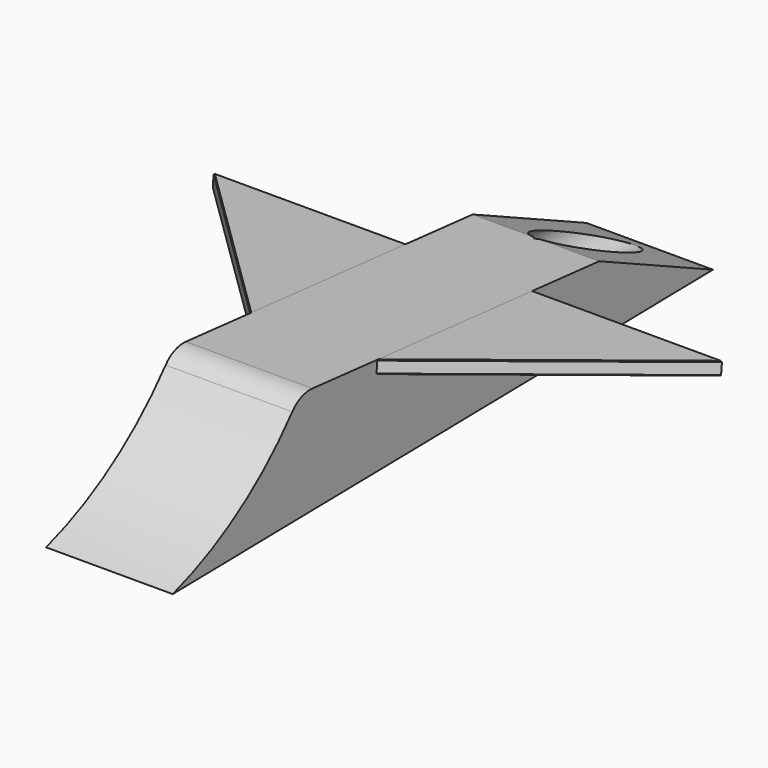
from build123d import *

# Parameters (mm, degrees)
F1_DEPTH      = 19.05
F1_DEPTH_BACK = 19.05
F2_R          = 8.7708682623
F4_DEPTH      = 3.81
F5_SIZE       = 0.254
F6_R          = 8.5644348715
F7_DEPTH      = 131.826
F8_R          = 7.62


with BuildPart() as f1:
    # F0 (on Right) → F1 (new body, two sides)
    with BuildSketch(Plane.YZ) as f1_sk:
        with BuildLine():
            ThreePointArc((-69.297126121, 10.6023983714), (-90.5654400371, -9.9203811878), (-117.0916636607, -22.9543797277))
            Line((-117.0916636607, -22.9543797277), (86.1083363393, -19.6213065932))
            Line((86.1083363393, -19.6213065932), (43.3460188102, 0))
            Line((43.3460188102, 0), (-69.297126121, 10.6023983714))
        make_face()
    extrude(amount=F1_DEPTH)
    extrude(f1_sk.sketch, amount=-F1_DEPTH_BACK)

    # F2
    f2_edges = [f1.edges().sort_by_distance(p)[0] for p in [
        (0, -69.297126, 10.602398),
    ]]
    fillet(f2_edges, radius=F2_R)

    # F3 (on face) → F4 (join)
    with BuildSketch(Plane(origin=(0, 0.380642539, 4.0440635396), x_dir=(1, 0, 0), z_dir=(0, 0.0937095933, 0.9955995742))):
        Polygon((-76.7426812672, 17.75527787), (0, -60.1567947547), (0, 17.75527787), align=None)
        Polygon((0, 17.75527787), (0, -60.1567947547), (76.2, 17.75527787), align=None)
    extrude(amount=-F4_DEPTH)

    # F5
    f5_edges = [f1.edges().sort_by_distance(p)[0] for p in [
        (47.625, -11.387704, 1.324905),
        (47.625, -11.03067, 5.118139),
        (-47.896341, -11.099236, 5.124593),
        (-47.896341, -11.45627, 1.331359),
    ]]
    chamfer(f5_edges, length=F5_SIZE)

    # F6 (on Front) → F7 (cut)
    with BuildSketch(Plane.XZ):
        with Locations((0, -8.5168717217)):
            Circle(F6_R)
    extrude(amount=-F7_DEPTH, mode=Mode.SUBTRACT)

    # F8
    f8_edges = [f1.edges().sort_by_distance(p)[0] for p in [
        (-8.564435, 0, -8.516872),
    ]]
    fillet(f8_edges, radius=F8_R)


solid = f1.part
